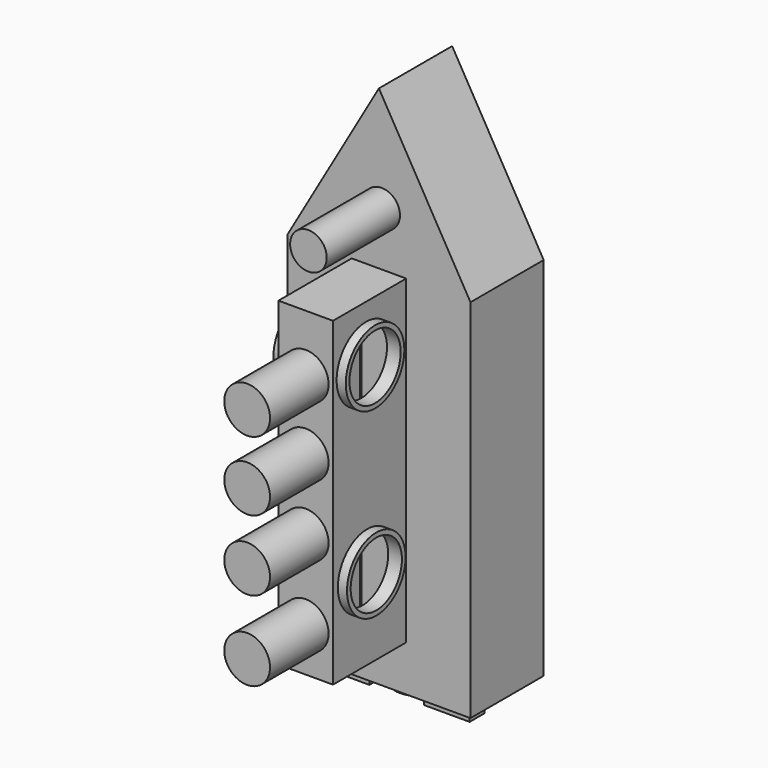
from build123d import *

# Parameters (mm, degrees)
F1_DEPTH  = 25.4
F2_W      = 15.1281697808
F2_H      = 88.9
F3_DEPTH  = 25.4
F4_R      = 6.35
F5_DEPTH  = 20.32
F7_R      = 10.16
F8_DEPTH  = 2.54
F6_R      = 10.16
F9_DEPTH  = 2.54
F10_T     = -1.27
F11_R     = 6.35
F11_R_2   = 3.556
F12_DEPTH = 5.08
F13_R     = 5.08
F14_DEPTH = 25.4


with BuildPart() as f1:
    # F0 (on Front) → F1 (new body)
    with BuildSketch(Plane.XZ):
        Polygon((-17.8410302192, 65.8628800811), (-17.8410302192, -35.7371199189), (32.9589697808, -35.7371199189), (32.9589697808, 65.8628800811), (7.5589697808, 109.8569705933), align=None)
    extrude(amount=F1_DEPTH)

    # F2 (on face) → F3 (join)
    with BuildSketch(Plane.XZ.offset(25.4)):
        with Locations((7.5640848904, 21.4128800811)):
            Rectangle(F2_W, F2_H)
    extrude(amount=F3_DEPTH)

    # F4 (on face) → F5 (join)
    with BuildSketch(Plane.XZ.offset(50.8)):
        with Locations((7.5640848904, 49.9533750117)):
            Circle(F4_R)
        with Locations((7.5640848904, 30.7380091399)):
            Circle(F4_R)
        with Locations((7.5640848904, 11.1665166914)):
            Circle(F4_R)
        with Locations((7.5640848904, -10.9471287578)):
            Circle(F4_R)
    extrude(amount=F5_DEPTH)

    # F7 (on face) → F8 (join)
    with BuildSketch(Plane.YZ.offset(15.1281697808)):
        with Locations((-38.9532968402, 0)):
            Circle(F7_R)
        with Locations((-39.375923574, 50.8)):
            Circle(F7_R)
    extrude(amount=F8_DEPTH)

    # F6 (on face) → F9 (join)
    with BuildSketch(Plane(origin=(0, 0, 0), x_dir=(0, -1, 0), z_dir=(-1, 0, 0))):
        with Locations((39.2042249441, 50.8)):
            Circle(F6_R)
        with Locations((39.2042249441, 0)):
            Circle(F6_R)
    extrude(amount=F9_DEPTH)

    # F10
    f10_openings = [f1.faces().sort_by_distance(p)[0] for p in [
        (17.66817, -38.953297, 0),
        (17.66817, -39.375924, 50.8),
        (-2.54, -39.204225, 50.8),
        (-2.54, -39.204225, 0),
    ]]
    offset(amount=F10_T, openings=f10_openings, kind=Kind.INTERSECTION)

    # F11 (on face) → F12 (join)
    with BuildSketch(Plane(origin=(0, 0, -35.7371199189), x_dir=(1, 0, 0), z_dir=(0, 0, -1))):
        with Locations((7.5692, 11.8115022779)):
            Circle(F11_R)
        with Locations((7.5692, 11.8115022779)):
            Circle(F11_R_2, mode=Mode.SUBTRACT)
        Polygon((0, 19.2781486231), (-12.7, 19.2781486231), (-12.7, 14.1981486231), (-8.89, 14.1981486231), (-8.89, 6.5781486231), (-3.81, 6.5781486231), (-3.81, 14.1981486231), (0, 14.1981486231), align=None)
        Polygon((27.8281697808, 19.2781486231), (15.1281697808, 19.2781486231), (15.1281697808, 14.1981486231), (18.9381697808, 14.1981486231), (18.9381697808, 6.5781486231), (24.0181697808, 6.5781486231), (24.0181697808, 14.1981486231), (27.8281697808, 14.1981486231), align=None)
    extrude(amount=F12_DEPTH)

    # F13 (on face) → F14 (join)
    with BuildSketch(Plane.XZ.offset(25.4)):
        with Locations((8.3121880889, 80.7227864861)):
            Circle(F13_R)
    extrude(amount=F14_DEPTH)


solid = f1.part
